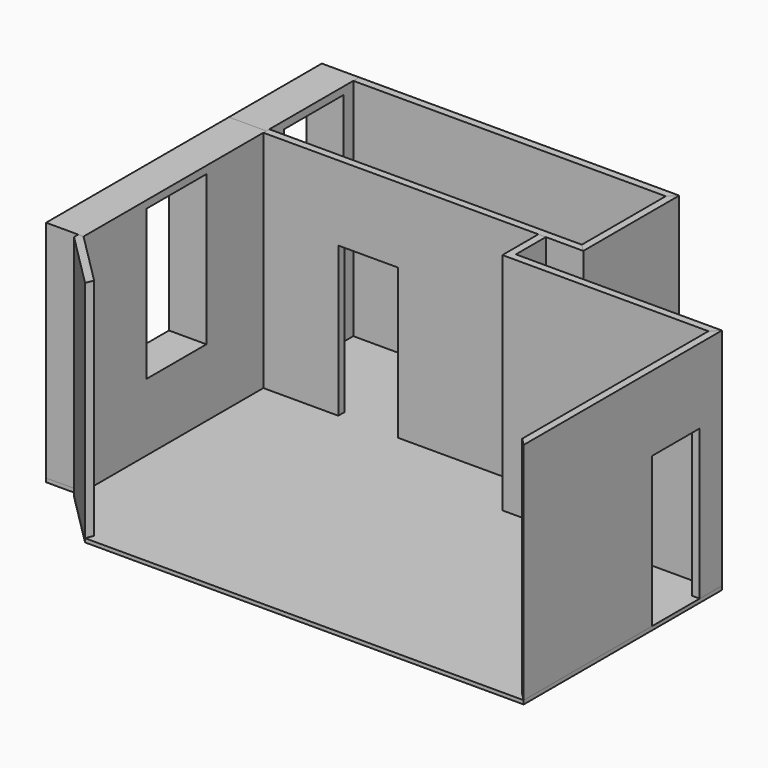
from build123d import *

# Parameters (mm, degrees)
F0_W      = 41.7
F0_H      = 14
F1_DEPTH  = 0.5
F2_DEPTH  = 30
F3_W      = 10
F3_H      = 20
F4_DEPTH  = 5
F5_DEPTH  = 30
F6_W      = 10
F6_H      = 20
F7_DEPTH  = 5
F8_DEPTH  = 30
F9_DEPTH  = 30
F10_DEPTH = 30
F11_W     = 8
F11_H     = 20
F12_DEPTH = 1
F13_DEPTH = 30
F14_DEPTH = 30
F16_DEPTH = 30
F15_W     = 8
F15_H     = 20
F17_DEPTH = 1


with BuildPart() as f1:
    # F0 (on Top) → F1 (new body)
    with BuildSketch(Plane.XY):
        Polygon((-37.407107, -8.464466), (-36.7, -8.464466), (-36.7, 21.535534), (-36.7, 22.035534), (-41.7, 22.035534), (-41.7, -8.464466), align=None)
        Polygon((-29.628932, -15.535534), (-36.7, -8.464466), (-37.407107, -8.464466), (-37.407107, -9.171573), (-30.043146, -16.535534), align=None)
        Polygon((-36.7, 22.035534), (-36.7, 21.535534), (0, 21.535534), (1, 21.535534), (5, 21.535534), (6, 21.535534), (5, 22.535534), (-36.7, 22.535534), align=None)
        Polygon((0, -15.535534), (-29.628932, -15.535534), (-30.043146, -16.535534), (0, -16.535534), align=None)
        Polygon((1, 21.535534), (0, 21.535534), (0, 15.535534), (27.5, 15.535534), (28.5, 16.535534), (1, 16.535534), align=None)
        Polygon((-41.7, 22.035534), (-36.7, 22.035534), (-36.7, 22.535534), (-36.7, 36.535534), (-36.7, 37.535534), (-41.7, 37.535534), align=None)
        Polygon((27.5, -15.535534), (0, -15.535534), (0, -16.535534), (28.5, -16.535534), align=None)
        Polygon((27.5, 15.535534), (27.5, -15.535534), (28.5, -16.535534), (28.5, 16.535534), align=None)
        Polygon((-36.7, 37.535534), (-36.7, 36.535534), (5, 36.535534), (6, 37.535534), align=None)
        Polygon((5, 36.535534), (5, 22.535534), (6, 21.535534), (6, 37.535534), align=None)
        Polygon((-36.7, 21.535534), (-36.7, -8.464466), (-29.628932, -15.535534), (0, -15.535534), (27.5, -15.535534), (27.5, 15.535534), (0, 15.535534), (0, 21.535534), align=None)
        with Locations((-15.85, 29.535534)):
            Rectangle(F0_W, F0_H)
    extrude(amount=-F1_DEPTH)


with BuildPart() as f2:
    # F0 (on Top) → F2 (new body)
    with BuildSketch(Plane.XY):
        Polygon((-37.407107, -8.464466), (-36.7, -8.464466), (-36.7, 21.535534), (-36.7, 22.035534), (-41.7, 22.035534), (-41.7, -8.464466), align=None)
    extrude(amount=F2_DEPTH)

    # F3 (on face) → F4 (cut, through all)
    with BuildSketch(Plane.YZ.offset(-36.7)):
        with Locations((7.035534, 19)):
            Rectangle(F3_W, F3_H)
    extrude(amount=-F4_DEPTH, mode=Mode.SUBTRACT)


with BuildPart() as f5:
    # F0 (on Top) → F5 (new body)
    with BuildSketch(Plane.XY):
        Polygon((-41.7, 22.035534), (-36.7, 22.035534), (-36.7, 22.535534), (-36.7, 36.535534), (-36.7, 37.535534), (-41.7, 37.535534), align=None)
    extrude(amount=F5_DEPTH)

    # F6 (on face) → F7 (cut, through all)
    with BuildSketch(Plane.YZ.offset(-36.7)):
        with Locations((29.942042, 19)):
            Rectangle(F6_W, F6_H)
    extrude(amount=-F7_DEPTH, mode=Mode.SUBTRACT)


with BuildPart() as f8:
    # F0 (on Top) → F8 (new body)
    with BuildSketch(Plane.XY):
        Polygon((-36.7, 37.535534), (-36.7, 36.535534), (5, 36.535534), (6, 37.535534), align=None)
    extrude(amount=F8_DEPTH)


with BuildPart() as f9:
    # F0 (on Top) → F9 (new body)
    with BuildSketch(Plane.XY):
        Polygon((5, 36.535534), (5, 22.535534), (6, 21.535534), (6, 37.535534), align=None)
    extrude(amount=F9_DEPTH)


with BuildPart() as f10:
    # F0 (on Top) → F10 (new body)
    with BuildSketch(Plane.XY):
        Polygon((-36.7, 22.035534), (-36.7, 21.535534), (0, 21.535534), (1, 21.535534), (5, 21.535534), (6, 21.535534), (5, 22.535534), (-36.7, 22.535534), align=None)
    extrude(amount=F10_DEPTH)

    # F11 (on face) → F12 (cut, through all)
    with BuildSketch(Plane.XZ.offset(-21.535534)):
        with Locations((-22.7, 10)):
            Rectangle(F11_W, F11_H)
    extrude(amount=-F12_DEPTH, mode=Mode.SUBTRACT)


with BuildPart() as f13:
    # F0 (on Top) → F13 (new body)
    with BuildSketch(Plane.XY):
        Polygon((1, 21.535534), (0, 21.535534), (0, 15.535534), (27.5, 15.535534), (28.5, 16.535534), (1, 16.535534), align=None)
    extrude(amount=F13_DEPTH)


with BuildPart() as f14:
    # F0 (on Top) → F14 (new body)
    with BuildSketch(Plane.XY):
        Polygon((27.5, 15.535534), (27.5, -15.535534), (28.5, -16.535534), (28.5, 16.535534), align=None)
    extrude(amount=F14_DEPTH)

    # F15 (on face) → F17 (cut, through all)
    with BuildSketch(Plane(origin=(27.5, 0, 0), x_dir=(0, -1, 0), z_dir=(-1, 0, 0))):
        with Locations((-8.835534, 10)):
            Rectangle(F15_W, F15_H)
    extrude(amount=-F17_DEPTH, mode=Mode.SUBTRACT)


with BuildPart() as f16:
    # F0 (on Top) → F16 (new body)
    with BuildSketch(Plane.XY):
        Polygon((-29.628932, -15.535534), (-36.7, -8.464466), (-37.407107, -8.464466), (-37.407107, -9.171573), (-30.043146, -16.535534), align=None)
    extrude(amount=F16_DEPTH)


solid = Compound([f1.part, f2.part, f5.part, f8.part, f9.part, f10.part, f13.part, f14.part, f16.part])
